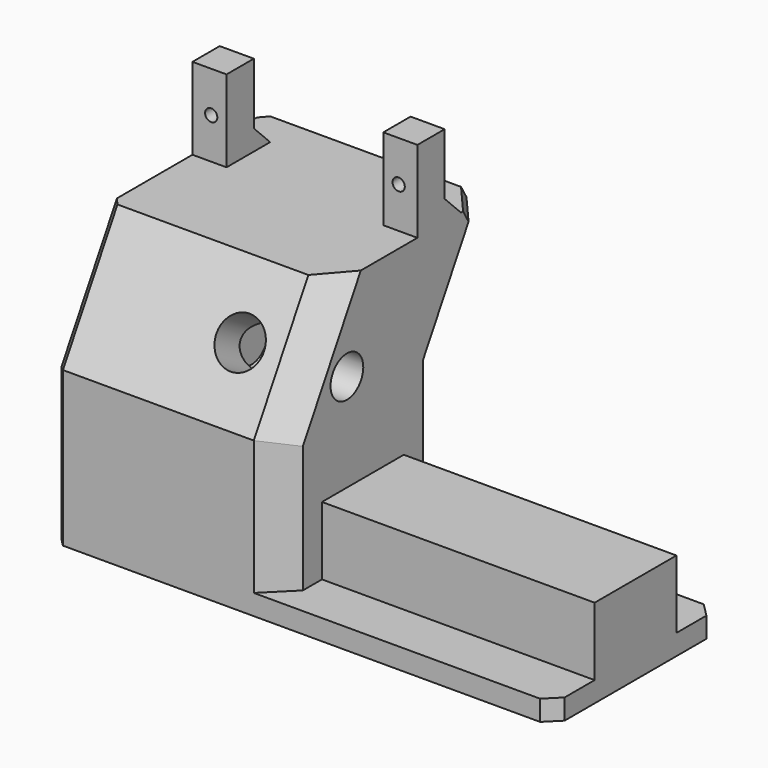
from build123d import *

# Parameters (mm, degrees)
PAD_DEPTH       = 15
SKETCH001_W     = 40
SKETCH001_H     = 15
PAD001_DEPTH    = 10
SKETCH002_R     = 2
POCKET_DEPTH    = 20
SKETCH003_W     = 5
SKETCH003_H     = 5
PAD002_DEPTH    = 12
SKETCH004_R     = 0.9
POCKET001_DEPTH = 5.001
PAD003_DEPTH    = 33
POCKET002_DEPTH = 73.001
CHAMFER_SIZE    = 2
CHAMFER001_SIZE = 2
CHAMFER002_SIZE = 1
CHAMFER003_SIZE = 4
SKETCH007_R     = 3.5
POCKET003_DEPTH = 8
SKETCH008_R     = 3
POCKET004_DEPTH = 14
CHAMFER004_SIZE = 3


with BuildPart() as part:
    # Sketch → Pad (new body, symmetric)
    with BuildSketch(Plane.XZ):
        Polygon((-33, 40), (-33, 0), (40, 0), (40, 3), (0, 3), (0, 40), align=None)
    extrude(amount=PAD_DEPTH, both=True)

    # Sketch001 (on Face4 of Pad) → Pad001 (join)
    with BuildSketch(Plane(origin=(0, 0, 3), x_dir=(-1, 0, 0), z_dir=(0, 0, 1))):
        with Locations((-20, 0)):
            Rectangle(SKETCH001_W, SKETCH001_H)
    extrude(amount=PAD001_DEPTH)

    # Sketch002 (on Face1 of Pad001) → Pocket (cut)
    with BuildSketch(Plane(origin=(-33, 0, 0), x_dir=(0, 0, -1), z_dir=(-1, 0, 0))):
        with Locations((-36, 11.0000000011)):
            Circle(SKETCH002_R)
        with Locations((-20, 11.0000000011)):
            Circle(SKETCH002_R)
        with Locations((-4, 11)):
            Circle(SKETCH002_R)
        with Locations((-4, -11)):
            Circle(SKETCH002_R)
        with Locations((-20, -11.0000000011)):
            Circle(SKETCH002_R)
        with Locations((-36, -11.0000000011)):
            Circle(SKETCH002_R)
    extrude(amount=-POCKET_DEPTH, mode=Mode.SUBTRACT)

    # Sketch003 (on Face2 of Pocket) → Pad002 (join)
    with BuildSketch(Plane(origin=(0, 0, 40), x_dir=(-1, 0, 0), z_dir=(0, 0, 1))):
        with Locations((2.5, -12.5)):
            Rectangle(SKETCH003_W, SKETCH003_H)
        with Locations((30.5, -12.5)):
            Rectangle(SKETCH003_W, SKETCH003_H)
    extrude(amount=PAD002_DEPTH)

    # Sketch004 (on Face6 of Pad002) → Pocket001 (cut, through all)
    with BuildSketch(Plane.XZ.offset(-10)):
        with Locations((-30.25, 46)):
            Circle(SKETCH004_R)
        with Locations((-2.75, 46)):
            Circle(SKETCH004_R)
    extrude(amount=-POCKET001_DEPTH, mode=Mode.SUBTRACT)

    # Sketch005 (on Face9 of Pocket001) → Pad003 (join)
    with BuildSketch(Plane(origin=(0, 0, 0), x_dir=(0, 0, 1), z_dir=(1, 0, 0))):
        Polygon((22.6794919243, -15), (40, -25), (40, -15), align=None)
    extrude(amount=-PAD003_DEPTH)

    # Sketch006 (on Face22 of Pad003) → Pocket002 (cut, through all)
    with BuildSketch(Plane(origin=(-33, 0, 0), x_dir=(0, 0, -1), z_dir=(-1, 0, 0))):
        Polygon((-40, 5), (-22.6794919243, 15), (-40, 15), align=None)
    extrude(amount=-POCKET002_DEPTH, mode=Mode.SUBTRACT)

    # Chamfer
    chamfer_edges = [part.edges().sort_by_distance(p)[0] for p in [
        (-16.5, 25, 40),
    ]]
    chamfer(chamfer_edges, length=CHAMFER_SIZE)

    # Chamfer001
    chamfer001_edges = [part.edges().sort_by_distance(p)[0] for p in [
        (40, -15, 1.5),
        (40, 15, 1.5),
    ]]
    chamfer(chamfer001_edges, length=CHAMFER001_SIZE)

    # Chamfer002
    chamfer002_edges = [part.edges().sort_by_distance(p)[0] for p in [
        (-33, -15, 11.339746),
        (-33, -10, 31.339746),
        (-33, 15, 11.339746),
        (-33, 19.5, 30.473721),
        (-33, 23.5, 39.133975),
    ]]
    chamfer(chamfer002_edges, length=CHAMFER002_SIZE)

    # Chamfer003
    chamfer003_edges = [part.edges().sort_by_distance(p)[0] for p in [
        (0, -15, 12.839746),
        (0, -10, 31.339746),
        (0, 19.5, 30.473721),
        (0, 15, 12.839746),
        (0, 23.5, 39.133975),
    ]]
    chamfer(chamfer003_edges, length=CHAMFER003_SIZE)

    # Sketch007 (on Face38 of Chamfer003) → Pocket003 (cut)
    with BuildSketch(Plane(origin=(0, -21.0705080757, 12.1650635095), x_dir=(1, 0, 0), z_dir=(0, -0.8660254038, 0.5))):
        with Locations((-10, 22.1410161514)):
            Circle(SKETCH007_R)
    extrude(amount=-POCKET003_DEPTH, mode=Mode.SUBTRACT)

    # Sketch008 (on Face11 of Pocket003) → Pocket004 (cut)
    with BuildSketch(Plane(origin=(0, 0, 0), x_dir=(0, 0, 1), z_dir=(1, 0, 0))):
        with Locations((27.330492, 2.925061)):
            Circle(SKETCH008_R)
    extrude(amount=-POCKET004_DEPTH, mode=Mode.SUBTRACT)

    # Chamfer004
    chamfer004_edges = [part.edges().sort_by_distance(p)[0] for p in [
        (-2.5, 15, 40),
        (-30.5, 15, 40),
    ]]
    chamfer(chamfer004_edges, length=CHAMFER004_SIZE)


solid = part.part
